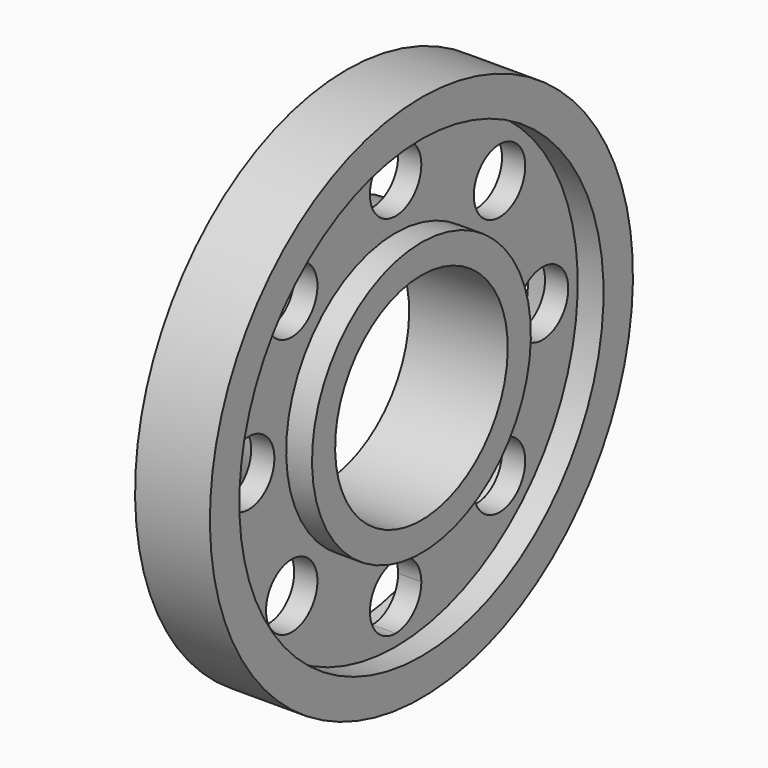
from build123d import *

# Parameters (mm, degrees)
F2_R     = 8.89
F3_DEPTH = 27.273186


with BuildPart() as f1:
    # F0 (on Front) → F1 (revolve)
    with BuildSketch(Plane.XZ):
        Polygon((-20.132869, 37.838385), (-20.132869, 29.842347), (7.139317, 29.842347), (7.139317, 37.838385), (0, 37.838385), (0, 62.968776), (7.139317, 62.968776), (7.139317, 73.128776), (-13.564699, 73.128776), (-13.564699, 62.968776), (-6.425383, 62.968776), (-6.425383, 37.838385), align=None)
    revolve(axis=Axis((11.994056, 0, 0), (1, 0, 0)))

    # F2 (on face) → F3 (cut, through all)
    with BuildSketch(Plane.YZ.offset(7.139317)):
        with Locations((-35.921024, 35.921024)):
            Circle(F2_R)
        with Locations((0, 50.8)):
            Circle(F2_R)
        with Locations((35.921024, 35.921024)):
            Circle(F2_R)
        with Locations((50.8, 0)):
            Circle(F2_R)
        with Locations((35.921024, -35.921024)):
            Circle(F2_R)
        with BuildLine():
            ThreePointArc((8.89, -50.8), (6.286179, -44.513821), (0, -41.91))
            Line((0, -41.91), (0, -59.69))
            ThreePointArc((0, -59.69), (6.286179, -57.086179), (8.89, -50.8))
        make_face()
        with BuildLine():
            Line((0, -59.69), (0, -41.91))
            ThreePointArc((0, -41.91), (-8.89, -50.8), (0, -59.69))
        make_face()
        with Locations((-35.921024, -35.921024)):
            Circle(F2_R)
        with Locations((-50.8, 0)):
            Circle(F2_R)
    extrude(amount=-F3_DEPTH, mode=Mode.SUBTRACT)


solid = f1.part
